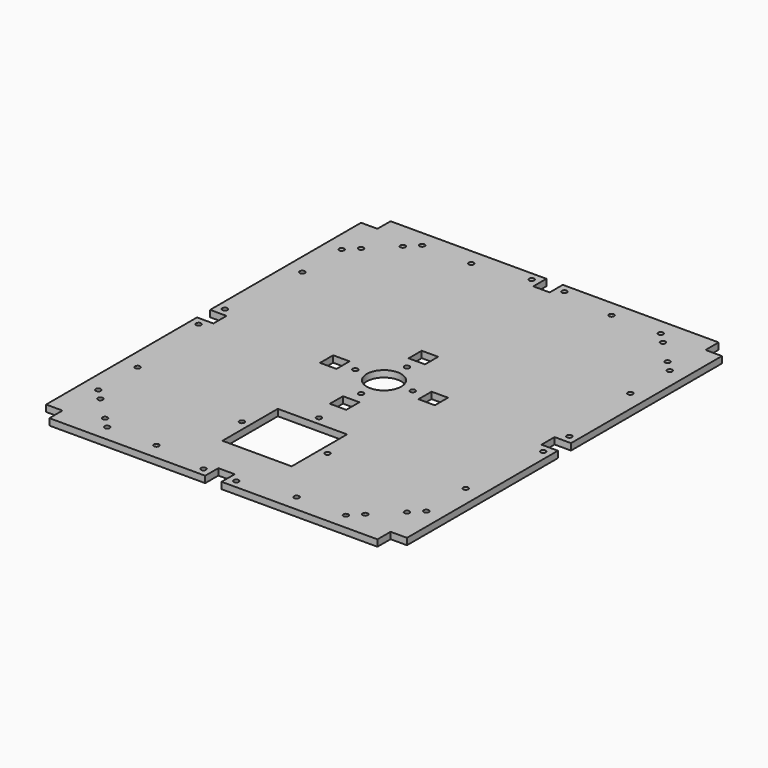
from build123d import *

# Parameters (mm, degrees)
F0_R     = 1.55
F0_W     = 42.2
F0_H     = 42.2
F0_W_2   = 10
F0_H_2   = 10
F0_R_2   = 10.5
F1_DEPTH = 4


with BuildPart() as f1:
    # F0 (on Top) → F1 (new body)
    with BuildSketch(Plane.XY):
        Polygon((-100, 120), (-110, 120), (-110, 5), (-100, 5), (-100, -5), (-110, -5), (-110, -120), (-100, -120), (-100, -130), (-5, -130), (-5, -120), (5, -120), (5, -130), (100, -130), (100, -120), (110, -120), (110, -5), (100, -5), (100, 5), (110, 5), (110, 120), (100, 120), (100, 130), (5, 130), (5, 120), (-5, 120), (-5, 130), (-100, 130), align=None)
        with Locations((-93.438403, -99.296597)):
            Circle(F0_R, mode=Mode.SUBTRACT)
        with Locations((-72.735, -120)):
            Circle(F0_R, mode=Mode.SUBTRACT)
        with Locations((-79.296597, -113.438403)):
            Circle(F0_R, mode=Mode.SUBTRACT)
        with Locations((-100, -92.735)):
            Circle(F0_R, mode=Mode.SUBTRACT)
        with Locations((-42.735, -120)):
            Circle(F0_R, mode=Mode.SUBTRACT)
        with Locations((-10, -125)):
            Circle(F0_R, mode=Mode.SUBTRACT)
        with Locations((-26.1, -75.647)):
            Circle(F0_R, mode=Mode.SUBTRACT)
        with Locations((-100, -62.735)):
            Circle(F0_R, mode=Mode.SUBTRACT)
        with Locations((-105, -10)):
            Circle(F0_R, mode=Mode.SUBTRACT)
        with Locations((10, -125)):
            Circle(F0_R, mode=Mode.SUBTRACT)
        with Locations((42.735, -120)):
            Circle(F0_R, mode=Mode.SUBTRACT)
        with Locations((0, -75.647)):
            Rectangle(F0_W, F0_H, mode=Mode.SUBTRACT)
        with Locations((26.1, -75.647)):
            Circle(F0_R, mode=Mode.SUBTRACT)
        with Locations((72.735, -120)):
            Circle(F0_R, mode=Mode.SUBTRACT)
        with Locations((79.296597, -113.438403)):
            Circle(F0_R, mode=Mode.SUBTRACT)
        with Locations((93.438403, -99.296597)):
            Circle(F0_R, mode=Mode.SUBTRACT)
        with Locations((100, -92.735)):
            Circle(F0_R, mode=Mode.SUBTRACT)
        with Locations((0, -49.547)):
            Circle(F0_R, mode=Mode.SUBTRACT)
        with Locations((0, -30)):
            Rectangle(F0_W_2, F0_H_2, mode=Mode.SUBTRACT)
        with Locations((0, -17.5)):
            Circle(F0_R, mode=Mode.SUBTRACT)
        with Locations((100, -62.735)):
            Circle(F0_R, mode=Mode.SUBTRACT)
        with Locations((105, -10)):
            Circle(F0_R, mode=Mode.SUBTRACT)
        with Locations((-105, 10)):
            Circle(F0_R, mode=Mode.SUBTRACT)
        with Locations((-100, 62.735)):
            Circle(F0_R, mode=Mode.SUBTRACT)
        with Locations((-30, 0)):
            Rectangle(F0_W_2, F0_H_2, mode=Mode.SUBTRACT)
        with Locations((-17.5, 0)):
            Circle(F0_R, mode=Mode.SUBTRACT)
        with Locations((-100, 92.735)):
            Circle(F0_R, mode=Mode.SUBTRACT)
        with Locations((-93.438403, 99.296597)):
            Circle(F0_R, mode=Mode.SUBTRACT)
        with Locations((-79.296597, 113.438403)):
            Circle(F0_R, mode=Mode.SUBTRACT)
        with Locations((-72.735, 120)):
            Circle(F0_R, mode=Mode.SUBTRACT)
        with Locations((-42.735, 120)):
            Circle(F0_R, mode=Mode.SUBTRACT)
        with Locations((-10, 125)):
            Circle(F0_R, mode=Mode.SUBTRACT)
        Circle(F0_R_2, mode=Mode.SUBTRACT)
        with Locations((17.5, 0)):
            Circle(F0_R, mode=Mode.SUBTRACT)
        with Locations((0, 17.5)):
            Circle(F0_R, mode=Mode.SUBTRACT)
        with Locations((0, 30)):
            Rectangle(F0_W_2, F0_H_2, mode=Mode.SUBTRACT)
        with Locations((30, 0)):
            Rectangle(F0_W_2, F0_H_2, mode=Mode.SUBTRACT)
        with Locations((105, 10)):
            Circle(F0_R, mode=Mode.SUBTRACT)
        with Locations((100, 62.735)):
            Circle(F0_R, mode=Mode.SUBTRACT)
        with Locations((10, 125)):
            Circle(F0_R, mode=Mode.SUBTRACT)
        with Locations((42.735, 120)):
            Circle(F0_R, mode=Mode.SUBTRACT)
        with Locations((100, 92.735)):
            Circle(F0_R, mode=Mode.SUBTRACT)
        with Locations((79.296597, 113.438403)):
            Circle(F0_R, mode=Mode.SUBTRACT)
        with Locations((72.735, 120)):
            Circle(F0_R, mode=Mode.SUBTRACT)
        with Locations((93.438403, 99.296597)):
            Circle(F0_R, mode=Mode.SUBTRACT)
    extrude(amount=F1_DEPTH)


solid = f1.part
